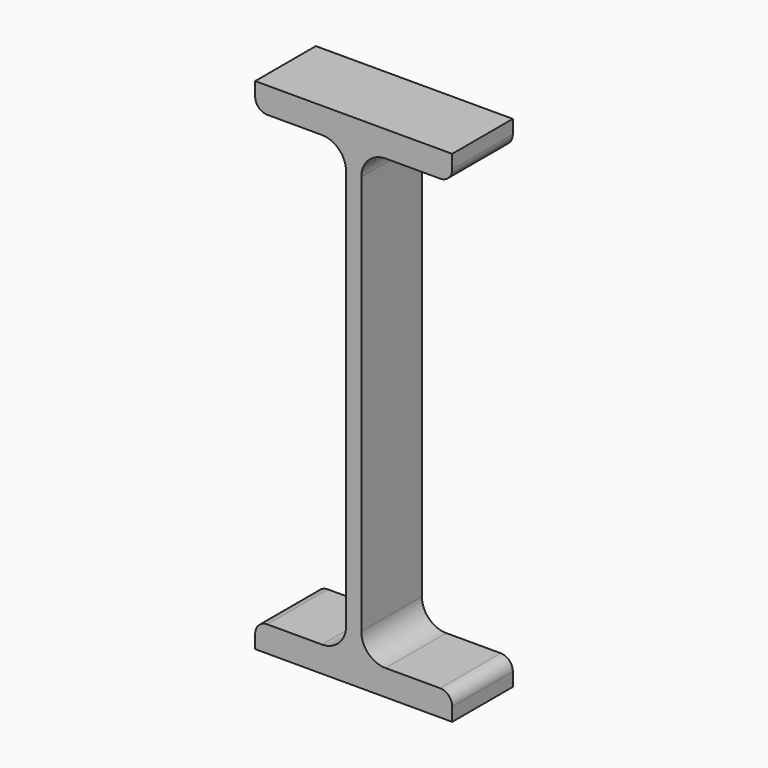
from build123d import *

# Parameters (mm, degrees)
F1_DEPTH = 25


with BuildPart() as f1:
    # F0 (on Front) → F1 (new body)
    with BuildSketch(Plane.XZ):
        with BuildLine():
            Line((32.5, 82.5), (-32.5, 82.5))
            Line((-32.5, 82.5), (-32.5, 78))
            ThreePointArc((-32.5, 78), (-31.328427, 75.171573), (-28.5, 74))
            Line((-28.5, 74), (-10.5, 74))
            ThreePointArc((-10.5, 74), (-4.843146, 71.656854), (-2.5, 66))
            Line((-2.5, 66), (-2.5, -66))
            ThreePointArc((-2.5, -66), (-4.843146, -71.656854), (-10.5, -74))
            Line((-10.5, -74), (-28.5, -74))
            ThreePointArc((-28.5, -74), (-31.328427, -75.171573), (-32.5, -78))
            Line((-32.5, -78), (-32.5, -82.5))
            Line((-32.5, -82.5), (32.5, -82.5))
            Line((32.5, -82.5), (32.5, -78))
            ThreePointArc((32.5, -78), (31.328427, -75.171573), (28.5, -74))
            Line((28.5, -74), (10.5, -74))
            ThreePointArc((10.5, -74), (4.843146, -71.656854), (2.5, -66))
            Line((2.5, -66), (2.5, 66))
            ThreePointArc((2.5, 66), (4.843146, 71.656854), (10.5, 74))
            Line((10.5, 74), (28.5, 74))
            ThreePointArc((28.5, 74), (31.328427, 75.171573), (32.5, 78))
            Line((32.5, 78), (32.5, 82.5))
        make_face()
    extrude(amount=F1_DEPTH)


solid = f1.part
